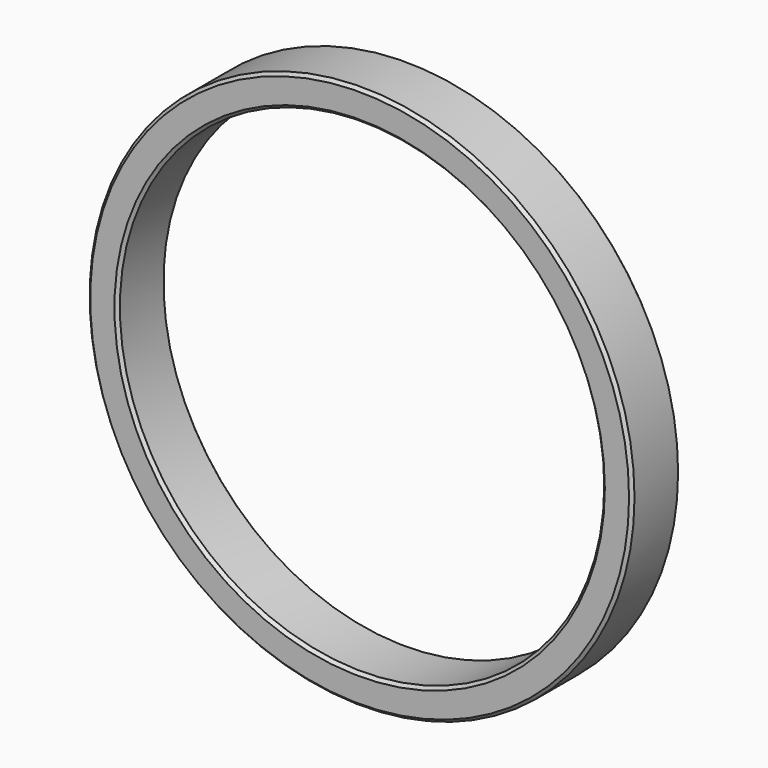
from build123d import *

# Parameters (mm, degrees)
SKETCH_R     = 45
SKETCH_R_2   = 40
PAD_DEPTH    = 10
CHAMFER_SIZE = 0.5


with BuildPart() as part:
    # Sketch → Pad (new body)
    with BuildSketch(Plane.XZ):
        Circle(SKETCH_R)
        Circle(SKETCH_R_2, mode=Mode.SUBTRACT)
    extrude(amount=PAD_DEPTH)

    # Chamfer
    chamfer_edges = [part.edges().sort_by_distance(p)[0] for p in [
        (-45, -10, 0),
        (-40, -10, 0),
        (-45, 0, 0),
        (-40, 0, 0),
    ]]
    chamfer(chamfer_edges, length=CHAMFER_SIZE)


solid = part.part
